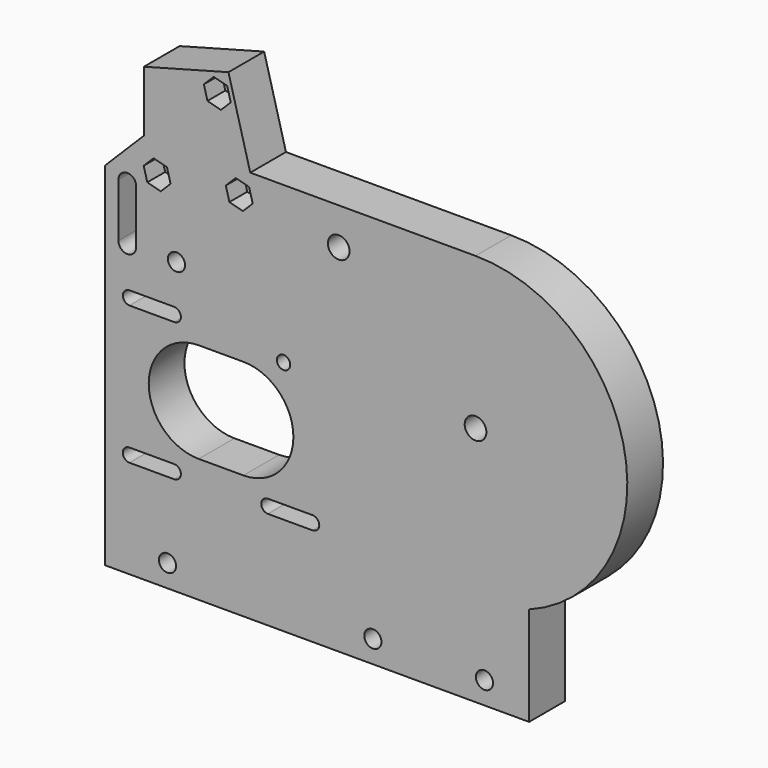
from build123d import *

# Parameters (mm, degrees)
SKETCH_R        = 2.425
PAD_DEPTH       = 10
SKETCH001_R     = 1.925
POCKET_DEPTH    = 12
SKETCH002_R     = 1.5
POCKET001_DEPTH = 12
SKETCH003_R     = 1.925
POCKET002_DEPTH = 12
SKETCH004_R     = 2.425
POCKET003_DEPTH = 12
SKETCH005_R     = 1.5
POCKET004_DEPTH = 12
POCKET005_DEPTH = 5
POCKET006_DEPTH = 12
POCKET007_DEPTH = 6


with BuildPart() as part:
    # Sketch → Pad (new body)
    with BuildSketch(Plane.XZ):
        with BuildLine():
            ThreePointArc((12, -31.811947), (33.448514, 6.098926), (0, 34))
            Line((0, 34), (-50.4621, 34))
            Line((-50.4621, 34), (-55.344463, 52.221225))
            Line((-55.344463, 52.221225), (-74.284202, 47.145798))
            Line((-74.284202, 47.145798), (-74.284202, 33.543798))
            Line((-74.284202, 33.543798), (-83, 24.828))
            Line((-83, 24.828), (-83, -54))
            Line((-83, -54), (12, -54))
            Line((12, -54), (12, -31.811947))
        make_face()
        Circle(SKETCH_R, mode=Mode.SUBTRACT)
    extrude(amount=PAD_DEPTH)

    # Sketch001 (on Face12 of Pad) → Pocket (cut)
    with BuildSketch(Plane.XZ.offset(10)):
        with Locations((-69, -49)):
            Circle(SKETCH001_R)
        with Locations((-23, -49)):
            Circle(SKETCH001_R)
        with Locations((2, -49)):
            Circle(SKETCH001_R)
    extrude(amount=-POCKET_DEPTH, mode=Mode.SUBTRACT)

    # Sketch002 (on Face5 of Pocket) → Pocket001 (cut)
    with BuildSketch(Plane.XZ.offset(10)):
        with Locations((-43, -1)):
            Circle(SKETCH002_R)
        with BuildLine():
            ThreePointArc((-62, -3.8), (-73.2, -15), (-62, -26.2))
            Line((-62, -26.2), (-52, -26.2))
            ThreePointArc((-52, -26.2), (-40.8, -15), (-52, -3.8))
            Line((-52, -3.8), (-62, -3.8))
        make_face()
        with BuildLine():
            ThreePointArc((-77.5, -29), (-79, -30.5), (-77.5, -32))
            Line((-77.5, -32), (-67.5, -32))
            ThreePointArc((-67.5, -32), (-66, -30.5), (-67.5, -29))
            Line((-67.5, -29), (-77.5, -29))
        make_face()
        with BuildLine():
            ThreePointArc((-46.5, -29), (-48, -30.5), (-46.5, -32))
            Line((-46.5, -32), (-36.5, -32))
            ThreePointArc((-36.5, -32), (-35, -30.5), (-36.5, -29))
            Line((-36.5, -29), (-46.5, -29))
        make_face()
        with BuildLine():
            ThreePointArc((-77.5, 2), (-79, 0.5), (-77.5, -1))
            Line((-77.5, -1), (-67.5, -1))
            ThreePointArc((-67.5, -1), (-66, 0.5), (-67.5, 2))
            Line((-67.5, 2), (-77.5, 2))
        make_face()
    extrude(amount=-POCKET001_DEPTH, mode=Mode.SUBTRACT)

    # Sketch003 (on Face5 of Pocket001) → Pocket002 (cut)
    with BuildSketch(Plane.XZ.offset(10)):
        with Locations((-67, 11)):
            Circle(SKETCH003_R)
    extrude(amount=-POCKET002_DEPTH, mode=Mode.SUBTRACT)

    # Sketch004 (on Face5 of Pocket002) → Pocket003 (cut)
    with BuildSketch(Plane.XZ.offset(10)):
        with Locations((-30.641778, 25.711504)):
            Circle(SKETCH004_R)
    extrude(amount=-POCKET003_DEPTH, mode=Mode.SUBTRACT)

    # Sketch005 (on Face5 of Pocket003) → Pocket004 (cut)
    with BuildSketch(Plane.XZ.offset(10)):
        with Locations((-57.838829, 47.234623)):
            Circle(SKETCH005_R)
        with Locations((-52.921267, 28.882032)):
            Circle(SKETCH005_R)
        with Locations((-71.317, 26.8)):
            Circle(SKETCH005_R)
    extrude(amount=-POCKET004_DEPTH, mode=Mode.SUBTRACT)

    # Sketch006 (on Face5 of Pocket004) → Pocket005 (cut)
    with BuildSketch(Plane.XZ.offset(10)):
        Polygon((-54.82737, 46.427705), (-55.634288, 49.439164), (-58.645747, 50.246082), (-60.850288, 48.041541), (-60.04337, 45.030082), (-57.031911, 44.223164), align=None)
        Polygon((-50.716726, 31.086573), (-53.728185, 31.893491), (-55.932726, 29.68895), (-55.125808, 26.677491), (-52.114349, 25.870573), (-49.909808, 28.075114), align=None)
        Polygon((-73.521541, 24.595459), (-70.510082, 23.788541), (-68.305541, 25.993082), (-69.112459, 29.004541), (-72.123918, 29.811459), (-74.328459, 27.606918), align=None)
    extrude(amount=-POCKET005_DEPTH, mode=Mode.SUBTRACT)

    # Sketch007 (on Face5 of Pocket005) → Pocket006 (cut)
    with BuildSketch(Plane.XZ.offset(10)):
        with BuildLine():
            ThreePointArc((-76, 23), (-78, 25), (-80, 23))
            Line((-80, 23), (-80, 11))
            ThreePointArc((-80, 11), (-78, 9), (-76, 11))
            Line((-76, 11), (-76, 23))
        make_face()
    extrude(amount=-POCKET006_DEPTH, mode=Mode.SUBTRACT)

    # Sketch008 (on Face4 of Pocket006) → Pocket007 (cut)
    with BuildSketch(Plane(origin=(0, 0, 0), x_dir=(1, 0, 0), z_dir=(0, 1, 0))):
        Polygon((-40.3, -0.558846), (-40.3, 2.558846), (-43, 4.117691), (-45.7, 2.558846), (-45.7, -0.558846), (-43, -2.117691), align=None)
    extrude(amount=-POCKET007_DEPTH, mode=Mode.SUBTRACT)


solid = part.part
